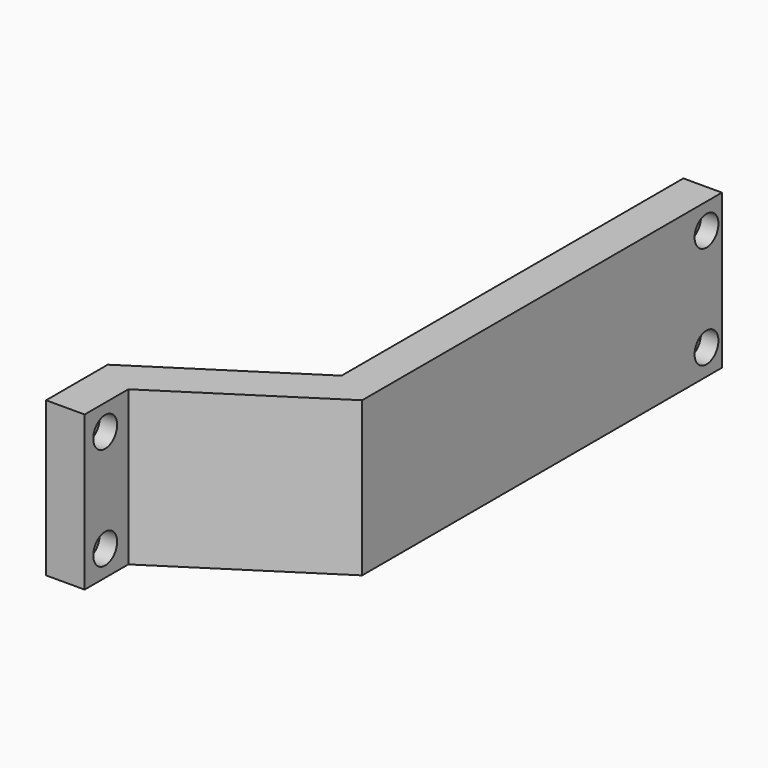
from build123d import *

# Parameters (mm, degrees)
PAD040_DEPTH    = 38.1
SKETCH080_R     = 2.286
POCKET008_DEPTH = 47.626
SKETCH081_R     = 3.683
POCKET009_DEPTH = 4.318
SKETCH082_R     = 3.683
POCKET010_DEPTH = 4.318


with BuildPart() as part:
    # Sketch079 → Pad040 (new body)
    with BuildSketch(Plane.XY):
        Polygon((47.239487, 111.25203), (56.764487, 111.25203), (56.764487, 0.12703), (18.664487, -24.473997), (18.664487, -37.97297), (9.139487, -37.97297), (9.139487, -18.92297), (47.239487, 5.678057), align=None)
    extrude(amount=PAD040_DEPTH)

    # Sketch080 (on Face4 of Pad040) → Pocket008 (cut, through all)
    with BuildSketch(Plane.YZ.offset(56.764487)):
        with Locations((106.48953, 31.75)):
            Circle(SKETCH080_R)
        with Locations((106.48953, 6.35)):
            Circle(SKETCH080_R)
        with Locations((-31.62297, 31.75)):
            Circle(SKETCH080_R)
        with Locations((-31.62297, 6.35)):
            Circle(SKETCH080_R)
    extrude(amount=-POCKET008_DEPTH, mode=Mode.SUBTRACT)

    # Sketch081 (on Face12 of Pocket008) → Pocket009 (cut)
    with BuildSketch(Plane.YZ.offset(56.764487)):
        with Locations((106.48953, 31.75)):
            Circle(SKETCH081_R)
        with Locations((106.48953, 6.35)):
            Circle(SKETCH081_R)
    extrude(amount=-POCKET009_DEPTH, mode=Mode.SUBTRACT)

    # Sketch082 (on Face14 of Pocket009) → Pocket010 (cut)
    with BuildSketch(Plane.YZ.offset(18.664487)):
        with Locations((-31.62297, 31.75)):
            Circle(SKETCH082_R)
        with Locations((-31.62297, 6.35)):
            Circle(SKETCH082_R)
    extrude(amount=-POCKET010_DEPTH, mode=Mode.SUBTRACT)


with BuildPart() as part_1:
    # Body005 placement: moved
    add(part.part.moved(Location((0.762, -12.192, -19.177))))


solid = part_1.part
